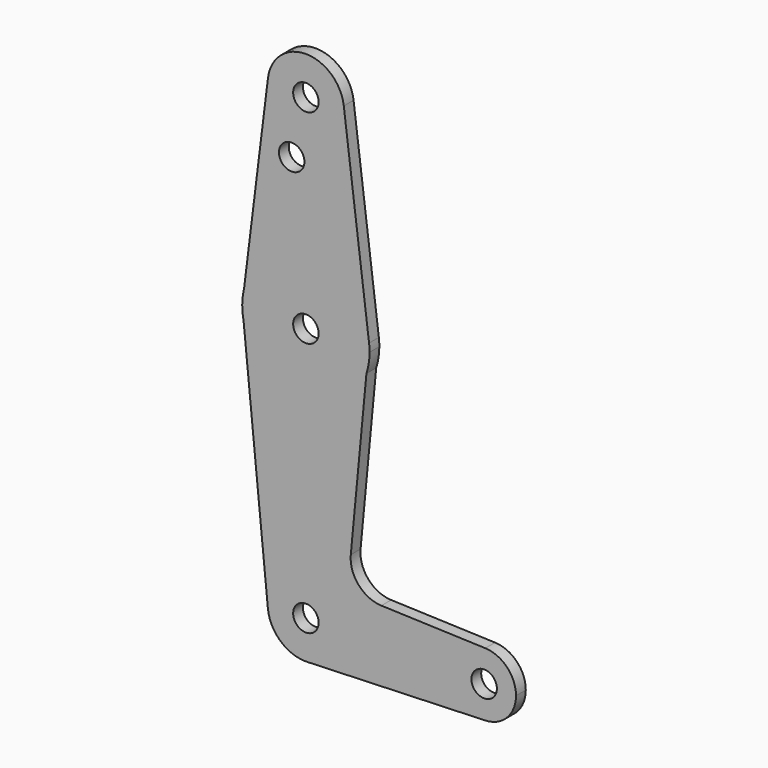
from build123d import *

# Parameters (mm, degrees)
F0_R     = 3.175
F1_DEPTH = 3.048


with BuildPart() as f1:
    # F0 (on Front) → F1 (new body)
    with BuildSketch(Plane.XZ):
        with BuildLine():
            ThreePointArc((-43.3858433886, 61.8940395718), (-34.5194667018, 51.2165000231), (-24.4080500946, 60.7234312085))
            ThreePointArc((-24.4080500946, 60.7234312085), (-24.4267452004, 61.3199144504), (-24.4827571304, 61.9140562085))
            ThreePointArc((-24.4827571304, 61.9140562085), (-33.9431361914, 70.2484258683), (-43.3858433886, 61.8940395718))
        make_face()
        with Locations((-33.9330500946, 60.7234312085)):
            Circle(F0_R, mode=Mode.SUBTRACT)
        with BuildLine():
            ThreePointArc((-24.4827571304, 61.9140562085), (-24.4267452004, 61.3199144504), (-24.4080500946, 60.7234312085))
            ThreePointArc((-24.4080500946, 60.7234312085), (-34.5194667018, 51.2165000231), (-43.3858433886, 61.8940395718))
            Line((-43.3858433886, 61.8940395718), (-49.3558772495, 13.6853492765))
            ThreePointArc((-49.3558772495, 13.6853492765), (-33.029304947, 25.7726857559), (-18.1825618209, 11.9078062085))
            Line((-18.1825618209, 11.9078062085), (-24.4827571304, 61.9140562085))
        make_face()
        with Locations((-37.4730378389, 46.4486312085)):
            Circle(F0_R, mode=Mode.SUBTRACT)
        with BuildLine():
            Line((-18.8386397744, 5.0066841044), (-18.1825618209, 11.9078062085))
            ThreePointArc((-18.1825618209, 11.9078062085), (-33.029304947, 25.7726857559), (-49.3558772495, 13.6853492765))
            Line((-49.3558772495, 13.6853492765), (-49.807641702, 10.0373008589))
            Line((-49.807641702, 10.0373008589), (-49.4766407399, 6.6966038421))
            ThreePointArc((-49.4766407399, 6.6966038421), (-34.8073486254, -5.9274749826), (-18.8386397744, 5.0066841044))
        make_face()
        with Locations((-33.9330500946, 9.9234312085)):
            Circle(F0_R, mode=Mode.SUBTRACT)
        with BuildLine():
            ThreePointArc((-18.0580500946, 9.9234312085), (-18.0892086042, 10.9175699451), (-18.1825618209, 11.9078062085))
            Line((-18.1825618209, 11.9078062085), (-18.8386397744, 5.0066841044))
            ThreePointArc((-18.8386397744, 5.0066841044), (-18.2544119389, 7.4342685815), (-18.0580500946, 9.9234312085))
        make_face()
        with BuildLine():
            Line((-49.807641702, 10.0373008589), (-49.3558772495, 13.6853492765))
            ThreePointArc((-49.3558772495, 13.6853492765), (-49.6877055847, 11.8744451474), (-49.807641702, 10.0373008589))
        make_face()
        with BuildLine():
            Line((-22.7393749194, -36.024186372), (-18.8386397744, 5.0066841044))
            ThreePointArc((-18.8386397744, 5.0066841044), (-34.8073486254, -5.9274749826), (-49.4766407399, 6.6966038421))
            Line((-49.4766407399, 6.6966038421), (-43.411637486, -54.5157205706))
            ThreePointArc((-43.411637486, -54.5157205706), (-34.4031990588, -44.0631790197), (-24.4080500946, -53.5765687915))
            ThreePointArc((-24.4080500946, -53.5765687915), (-27.0207425132, -60.129860247), (-33.4255049818, -63.0880367623))
            Line((-33.4255049818, -63.0880367623), (10.8001679548, -61.5090144287))
            ThreePointArc((10.8001679548, -61.5090144287), (2.5794499158, -53.5769754371), (10.7993551799, -45.644094177))
            Line((10.7993551799, -45.644094177), (-15.107717214, -44.7217724239))
            ThreePointArc((-15.107717214, -44.7217724239), (-20.8007472645, -42.0201211336), (-22.7393749194, -36.024186372))
        make_face()
        with BuildLine():
            Line((-49.4766407399, 6.6966038421), (-49.807641702, 10.0373008589))
            ThreePointArc((-49.807641702, 10.0373008589), (-49.7306957469, 8.3581782434), (-49.4766407399, 6.6966038421))
        make_face()
        with BuildLine():
            ThreePointArc((-24.4080500946, -53.5765687915), (-34.4031990588, -44.0631790197), (-43.411637486, -54.5157205706))
            ThreePointArc((-43.411637486, -54.5157205706), (-40.1371657539, -60.8039178136), (-33.4255049818, -63.0880367623))
            ThreePointArc((-33.4255049818, -63.0880367623), (-27.0207425132, -60.129860247), (-24.4080500946, -53.5765687915))
        make_face()
        with Locations((-33.9330500946, -53.5765687915)):
            Circle(F0_R, mode=Mode.SUBTRACT)
        with BuildLine():
            ThreePointArc((18.4544499054, -53.5765687915), (16.2285826893, -48.0646583068), (10.7993551799, -45.644094177))
            ThreePointArc((10.7993551799, -45.644094177), (2.5794499158, -53.5769754371), (10.8001679548, -61.5090144287))
            ThreePointArc((10.8001679548, -61.5090144287), (16.2288650622, -59.0881866567), (18.4544499054, -53.5765687915))
        make_face()
        with Locations((10.5169499054, -53.5765687915)):
            Circle(F0_R, mode=Mode.SUBTRACT)
    extrude(amount=F1_DEPTH)


solid = f1.part
